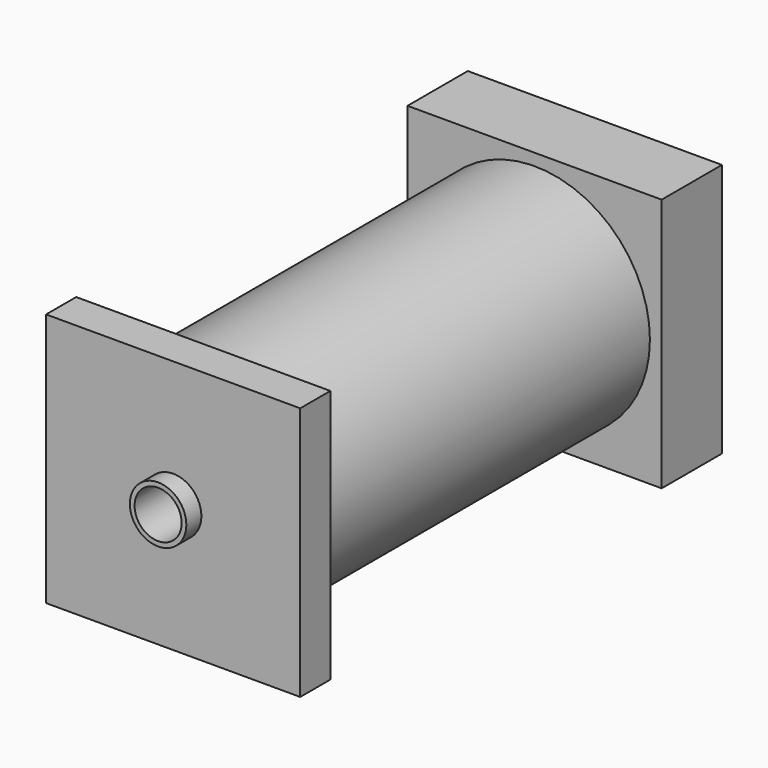
from build123d import *

# Parameters (mm, degrees)
F0_R      = 70
F1_DEPTH  = 250
F2_R      = 38.1
F3_DEPTH  = 250.001
F4_R      = 37.465
F4_R_2    = 31.115
F5_DEPTH  = 12.7
F6_R      = 77.7875
F6_R_2    = 74.6125
F7_DEPTH  = 279.4
F8_W      = 171.45
F8_H      = 171.45
F9_DEPTH  = 50.8
F10_R     = 19.05
F11_DEPTH = 330.201
F12_R     = 19.05
F12_R_2   = 15.875
F13_DEPTH = 12.7
F14_R     = 19.05
F14_R_2   = 15.875
F15_DEPTH = 304.8
F16_W     = 171.45
F16_H     = 171.45
F16_R     = 19.05
F17_DEPTH = 25.4


with BuildPart() as f1:
    # F0 (on Front) → F1 (new body)
    with BuildSketch(Plane.XZ):
        Circle(F0_R)
    extrude(amount=F1_DEPTH)

    # F2 (on face) → F3 (cut, through all)
    with BuildSketch(Plane(origin=(0, 0, 0), x_dir=(-1, 0, 0), z_dir=(0, 1, 0))):
        Circle(F2_R)
    extrude(amount=-F3_DEPTH, mode=Mode.SUBTRACT)


with BuildPart() as f5:
    # F4 (on face) → F5 (new body, symmetric)
    with BuildSketch(Plane(origin=(0, 0, 0), x_dir=(-1, 0, 0), z_dir=(0, 1, 0))):
        Circle(F4_R)
        Circle(F4_R_2, mode=Mode.SUBTRACT)
    extrude(amount=F5_DEPTH, both=True)


with BuildPart() as f7:
    # F6 (on Front) → F7 (new body)
    with BuildSketch(Plane.XZ):
        Circle(F6_R)
        Circle(F6_R_2, mode=Mode.SUBTRACT)
    extrude(amount=F7_DEPTH)


with BuildPart() as f9:
    # F8 (on Front) → F9 (new body)
    with BuildSketch(Plane.XZ):
        Rectangle(F8_W, F8_H)
    extrude(amount=-F9_DEPTH)

    # F10 (on face) → F11 (cut, through all)
    with BuildSketch(Plane(origin=(0, 50.8, 0), x_dir=(-1, 0, 0), z_dir=(0, 1, 0))):
        Circle(F10_R)
    extrude(amount=-F11_DEPTH, mode=Mode.SUBTRACT)

    # F12 (on face) → F13 (join, symmetric)
    with BuildSketch(Plane.XZ):
        Circle(F12_R)
        Circle(F12_R_2, mode=Mode.SUBTRACT)
    extrude(amount=F13_DEPTH, both=True)

    # F14 (on face) → F15 (join)
    with BuildSketch(Plane.XZ.offset(12.7)):
        Circle(F14_R)
        Circle(F14_R_2, mode=Mode.SUBTRACT)
    extrude(amount=F15_DEPTH)


with BuildPart() as f17:
    # F16 (on face) → F17 (new body)
    with BuildSketch(Plane.XZ.offset(279.4)):
        Rectangle(F16_W, F16_H)
        Circle(F16_R, mode=Mode.SUBTRACT)
    extrude(amount=F17_DEPTH)


solid = Compound([f1.part, f5.part, f7.part, f9.part, f17.part])
